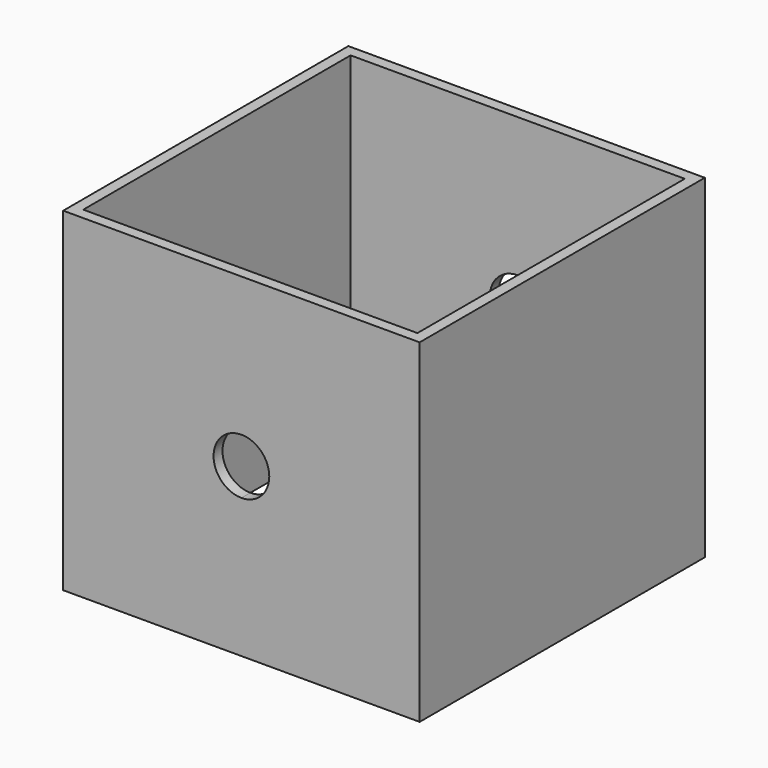
from build123d import *

# Parameters (mm, degrees)
F0_W     = 32
F0_H     = 32
F0_W_2   = 30
F0_H_2   = 30
F1_DEPTH = 30
F3_DEPTH = 50


with BuildPart() as f1:
    # F0 (on Top) → F1 (new body)
    with BuildSketch(Plane.XY):
        Rectangle(F0_W, F0_H)
        Rectangle(F0_W_2, F0_H_2, mode=Mode.SUBTRACT)
    extrude(amount=F1_DEPTH)

    # F2 (on face) → F3 (cut)
    with BuildSketch(Plane.XZ.offset(16)):
        with BuildLine():
            ThreePointArc((0, 12.5), (1.767767, 13.232233), (2.5, 15))
            ThreePointArc((2.5, 15), (-1.767767, 16.767767), (0, 12.5))
        make_face()
    extrude(amount=-F3_DEPTH, mode=Mode.SUBTRACT)


solid = f1.part
